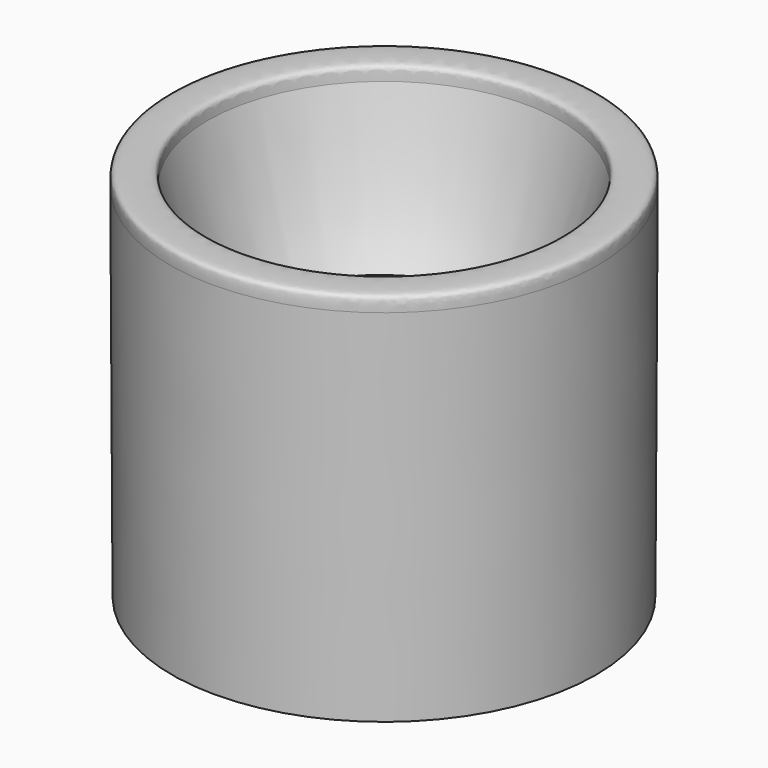
from build123d import *

# Parameters (mm, degrees)
F3_DEPTH = 44.45


with BuildPart() as f1:
    # F0 (on Front) → F1 (revolve)
    with BuildSketch(Plane.XZ):
        with BuildLine():
            Line((1.6088010743, 17.4848195165), (1.6088010743, 0))
            Line((1.6088010743, 0), (31.4828573014, 7.5690059866))
            Line((31.4828573014, 7.5690059866), (31.7480413082, 61.1988871051))
            add(Edge.make_bspline(
                [(26.2035475697, 61.2934945888), (26.2069776562, 62.3848731531), (26.0342650246, 63.5342821105), (29.0022907923, 63.4808628001), (31.7413857824, 63.4801116025), (31.754885683, 62.5830694003), (31.7480413082, 61.1988871051)],
                knots=[0, 0, 0, 0, 0.2338215729, 0.4991456914, 0.757045452, 1, 1, 1, 1], degree=3))
            add(Edge.make_bspline(
                [(26.2035475697, 61.2934945888), (22.4956165663, 46.7274721388), (16.9476646355, 36.9763651458), (11.7193665355, 34.1453179717), (7.3621575721, 31.7935502243)],
                knots=[0, 0, 0, 0, 0.6170585405, 1, 1, 1, 1], degree=3))
            Line((7.3621575721, 31.7935502243), (7.3621575721, 40.9502983093))
            Line((7.3621575721, 40.9502983093), (4.7786105424, 40.9502983093))
            Line((4.7786105424, 40.9502983093), (4.7786105424, 31.7442826927))
            Line((4.7786105424, 31.7442826927), (0, 31.7442826927))
            Line((0, 31.7442826927), (0, 17.4848195165))
            Line((0, 17.4848195165), (1.6088010743, 17.4848195165))
        make_face()
    revolve(axis=Axis((0, 0, 24.6145511046), (0, 0, -1)))

    # F2 (on Top) → F3 (cut)
    with BuildSketch(Plane.XY):
        with BuildLine():
            Line((-18.1691916227, 1.2442374048), (-13.9392020646, 1.2720385566))
            Line((-13.9392020646, 1.2720385566), (-9.698456327, 1.2999104023))
            ThreePointArc((-9.698456327, 1.2999104023), (-6.9459395804, 7.0233771429), (-1.2715243209, 9.8756449134))
            Line((-1.2715243209, 9.8756449134), (-1.2685051188, 13.9491879381))
            Line((-1.2685051188, 13.9491879381), (-1.2700147199, 18.0079564452))
            ThreePointArc((-1.2700147199, 18.0079564452), (-12.8459465301, 12.777702446), (-18.1691916227, 1.2442374048))
        make_face()
        with BuildLine():
            Line((1.2700147199, 18.0079564452), (1.2685051188, 13.9491879381))
            Line((1.2685051188, 13.9491879381), (1.2715243209, 9.8756449134))
            ThreePointArc((1.2715243209, 9.8756449134), (6.9459395804, 7.0233771429), (9.698456327, 1.2999104023))
            Line((9.698456327, 1.2999104023), (13.9392020646, 1.2720385566))
            Line((13.9392020646, 1.2720385566), (18.1691916227, 1.2442374048))
            ThreePointArc((18.1691916227, 1.2442374048), (12.8459465301, 12.777702446), (1.2700147199, 18.0079564452))
        make_face()
        with BuildLine():
            Line((-1.2685051188, -13.9491879381), (-1.2715243209, -9.8756449134))
            ThreePointArc((-1.2715243209, -9.8756449134), (-6.9459395804, -7.0233771429), (-9.698456327, -1.2999104023))
            Line((-9.698456327, -1.2999104023), (-13.9392020646, -1.2720385566))
            Line((-13.9392020646, -1.2720385566), (-18.1691916227, -1.2442374048))
            ThreePointArc((-18.1691916227, -1.2442374048), (-12.8459465301, -12.777702446), (-1.2700147199, -18.0079564452))
            Line((-1.2700147199, -18.0079564452), (-1.2685051188, -13.9491879381))
        make_face()
        with BuildLine():
            ThreePointArc((9.698456327, -1.2999104023), (6.9459395804, -7.0233771429), (1.2715243209, -9.8756449134))
            Line((1.2715243209, -9.8756449134), (1.2685051188, -13.9491879381))
            Line((1.2685051188, -13.9491879381), (1.2700147199, -18.0079564452))
            ThreePointArc((1.2700147199, -18.0079564452), (12.8459465301, -12.777702446), (18.1691916227, -1.2442374048))
            Line((18.1691916227, -1.2442374048), (13.9392020646, -1.2720385566))
            Line((13.9392020646, -1.2720385566), (9.698456327, -1.2999104023))
        make_face()
    extrude(amount=F3_DEPTH, mode=Mode.SUBTRACT)


solid = f1.part
